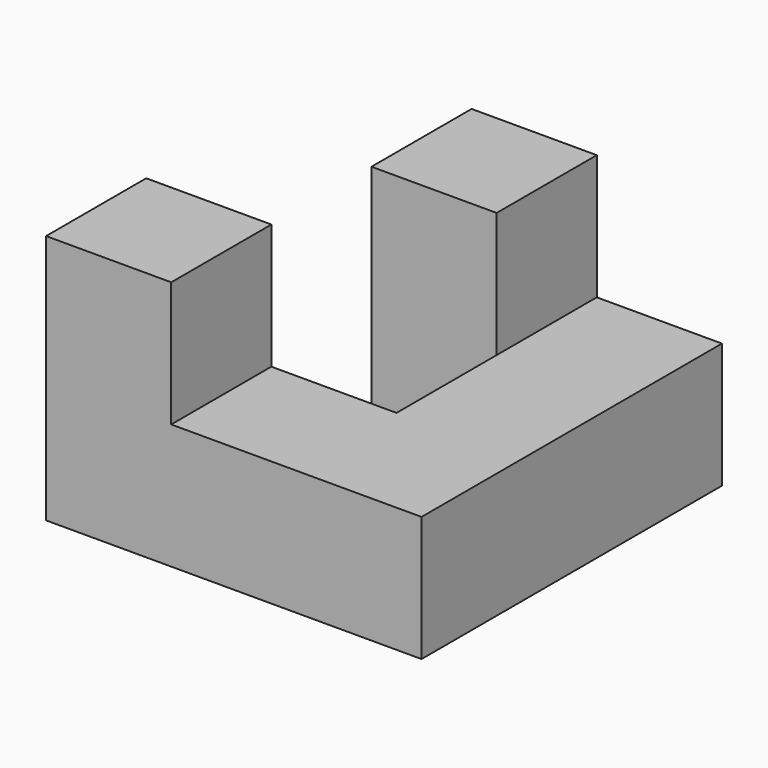
from build123d import *

# Parameters (mm, degrees)
F1_DEPTH = 19.05
F2_W     = 19.05
F2_H     = 19.05
F3_DEPTH = 38.1
F4_W     = 19.05
F4_H     = 19.05
F5_DEPTH = 19.05
F6_W     = 19.05
F6_H     = 19.05
F7_DEPTH = 19.05


with BuildPart() as f1:
    # F0 (on Front) → F1 (new body)
    with BuildSketch(Plane.XZ):
        Polygon((-25.4, 19.05), (-25.4, -19.05), (31.75, -19.05), (31.75, 0), (-6.35, 0), (-6.35, 19.05), align=None)
    extrude(amount=F1_DEPTH)

    # F2 (on face) → F3 (join)
    with BuildSketch(Plane(origin=(0, 0, 0), x_dir=(-1, 0, 0), z_dir=(0, 1, 0))):
        with Locations((-22.225, -9.525)):
            Rectangle(F2_W, F2_H)
    extrude(amount=F3_DEPTH)

    # F4 (on face) → F5 (join)
    with BuildSketch(Plane(origin=(12.7, 0, 0), x_dir=(0, -1, 0), z_dir=(-1, 0, 0))):
        with Locations((-28.575, -9.525)):
            Rectangle(F4_W, F4_H)
    extrude(amount=F5_DEPTH)

    # F6 (on face) → F7 (join)
    with BuildSketch(Plane.XY):
        with Locations((3.175, 28.575)):
            Rectangle(F6_W, F6_H)
    extrude(amount=F7_DEPTH)


solid = f1.part
